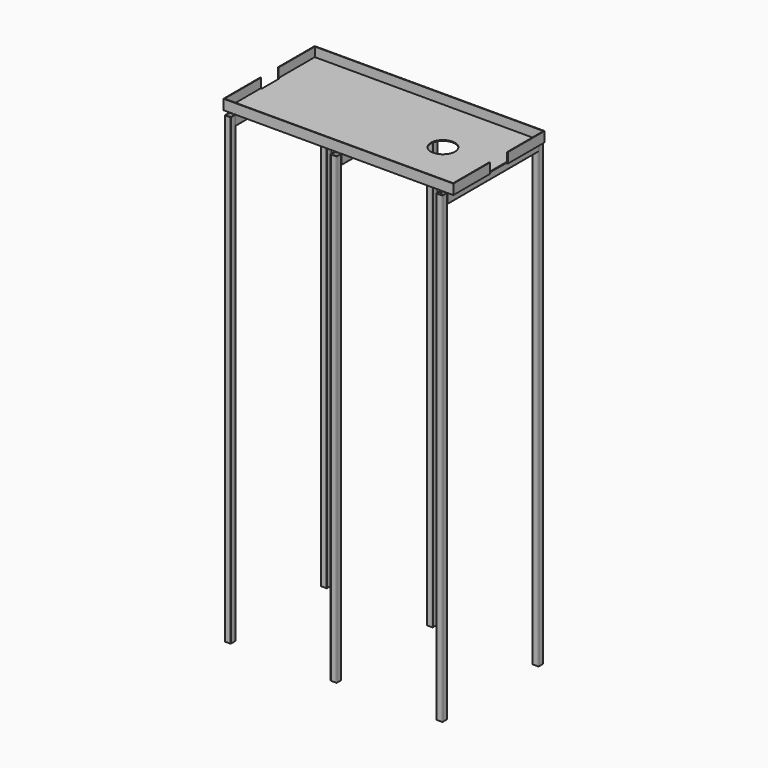
from build123d import *

# Parameters (mm, degrees)
F0_R     = 60
F1_DEPTH = 4
F2_DEPTH = 50
F4_DEPTH = 566
F5_DEPTH = 2300


with BuildPart() as f1:
    # F0 (on Top) → F1 (new body)
    with BuildSketch(Plane.XY):
        Polygon((567.5, 55), (567.5, 280), (-567.5, 280), (-567.5, 55), (-562.5, 55), (-562.5, -55), (-567.5, -55), (-567.5, -280), (567.5, -280), (567.5, -55), (562.5, -55), (562.5, 55), align=None)
        with Locations((292.5, 0)):
            Circle(F0_R, mode=Mode.SUBTRACT)
    extrude(amount=F1_DEPTH)

    # F0 (on Top) → F2 (join)
    with BuildSketch(Plane.XY):
        Polygon((-567.5, 280), (567.5, 280), (567.5, 55), (570.5, 55), (570.5, 283), (538.5, 283), (512.5, 283), (13, 283), (-13, 283), (-512.5, 283), (-538.5, 283), (-570.5, 283), (-570.5, 55), (-567.5, 55), align=None)
        Polygon((570.5, -55), (567.5, -55), (567.5, -280), (-567.5, -280), (-567.5, -55), (-570.5, -55), (-570.5, -283), (570.5, -283), align=None)
    extrude(amount=F2_DEPTH)


with BuildPart() as f4:
    # F3 (on face) → F4 (new body)
    with BuildSketch(Plane.XZ.offset(283)):
        with BuildLine():
            Line((-512.5, 0), (-538.5, 0))
            ThreePointArc((-538.5, 0), (-539.914214, -0.585786), (-540.5, -2))
            Line((-540.5, -2), (-540.5, -48))
            ThreePointArc((-540.5, -48), (-539.914214, -49.414214), (-538.5, -50))
            Line((-538.5, -50), (-512.5, -50))
            ThreePointArc((-512.5, -50), (-511.085786, -49.414214), (-510.5, -48))
            Line((-510.5, -48), (-510.5, -2))
            ThreePointArc((-510.5, -2), (-511.085786, -0.585786), (-512.5, 0))
        make_face()
        with BuildLine():
            Line((-538.9, -48), (-538.9, -2))
            ThreePointArc((-538.9, -2), (-538.782843, -1.717157), (-538.5, -1.6))
            Line((-538.5, -1.6), (-512.5, -1.6))
            ThreePointArc((-512.5, -1.6), (-512.217157, -1.717157), (-512.1, -2))
            Line((-512.1, -2), (-512.1, -48))
            ThreePointArc((-512.1, -48), (-512.217157, -48.282843), (-512.5, -48.4))
            Line((-512.5, -48.4), (-538.5, -48.4))
            ThreePointArc((-538.5, -48.4), (-538.782843, -48.282843), (-538.9, -48))
        make_face(mode=Mode.SUBTRACT)
        with BuildLine():
            Line((512.5, -50), (538.5, -50))
            ThreePointArc((538.5, -50), (539.914214, -49.414214), (540.5, -48))
            Line((540.5, -48), (540.5, -2))
            ThreePointArc((540.5, -2), (539.914214, -0.585786), (538.5, 0))
            Line((538.5, 0), (512.5, 0))
            ThreePointArc((512.5, 0), (511.085786, -0.585786), (510.5, -2))
            Line((510.5, -2), (510.5, -48))
            ThreePointArc((510.5, -48), (511.085786, -49.414214), (512.5, -50))
        make_face()
        with BuildLine():
            ThreePointArc((538.9, -48), (538.782843, -48.282843), (538.5, -48.4))
            Line((538.5, -48.4), (512.5, -48.4))
            ThreePointArc((512.5, -48.4), (512.217157, -48.282843), (512.1, -48))
            Line((512.1, -48), (512.1, -2))
            ThreePointArc((512.1, -2), (512.217157, -1.717157), (512.5, -1.6))
            Line((512.5, -1.6), (538.5, -1.6))
            ThreePointArc((538.5, -1.6), (538.782843, -1.717157), (538.9, -2))
            Line((538.9, -2), (538.9, -48))
        make_face(mode=Mode.SUBTRACT)
        with BuildLine():
            Line((13, 0), (-13, 0))
            ThreePointArc((-13, 0), (-14.414214, -0.585786), (-15, -2))
            Line((-15, -2), (-15, -48))
            ThreePointArc((-15, -48), (-14.414214, -49.414214), (-13, -50))
            Line((-13, -50), (13, -50))
            ThreePointArc((13, -50), (14.414214, -49.414214), (15, -48))
            Line((15, -48), (15, -2))
            ThreePointArc((15, -2), (14.414214, -0.585786), (13, 0))
        make_face()
        with BuildLine():
            Line((-13.4, -48), (-13.4, -2))
            ThreePointArc((-13.4, -2), (-13.282843, -1.717157), (-13, -1.6))
            Line((-13, -1.6), (13, -1.6))
            ThreePointArc((13, -1.6), (13.282843, -1.717157), (13.4, -2))
            Line((13.4, -2), (13.4, -48))
            ThreePointArc((13.4, -48), (13.282843, -48.282843), (13, -48.4))
            Line((13, -48.4), (-13, -48.4))
            ThreePointArc((-13, -48.4), (-13.282843, -48.282843), (-13.4, -48))
        make_face(mode=Mode.SUBTRACT)
    extrude(amount=-F4_DEPTH)


with BuildPart() as f5:
    # F0 (on Top) → F5 (new body)
    with BuildSketch(Plane.XY):
        with BuildLine():
            ThreePointArc((-540.5, 285), (-539.914214, 283.585786), (-538.5, 283))
            Line((-538.5, 283), (-512.5, 283))
            ThreePointArc((-512.5, 283), (-511.085786, 283.585786), (-510.5, 285))
            Line((-510.5, 285), (-510.5, 311))
            ThreePointArc((-510.5, 311), (-511.085786, 312.414214), (-512.5, 313))
            Line((-512.5, 313), (-538.5, 313))
            ThreePointArc((-538.5, 313), (-539.914214, 312.414214), (-540.5, 311))
            Line((-540.5, 311), (-540.5, 285))
        make_face()
        with BuildLine():
            ThreePointArc((-536.9, 284.6), (-538.314214, 285.185786), (-538.9, 286.6))
            Line((-538.9, 286.6), (-538.9, 309.4))
            ThreePointArc((-538.9, 309.4), (-538.314214, 310.814214), (-536.9, 311.4))
            Line((-536.9, 311.4), (-514.1, 311.4))
            ThreePointArc((-514.1, 311.4), (-512.685786, 310.814214), (-512.1, 309.4))
            Line((-512.1, 309.4), (-512.1, 286.6))
            ThreePointArc((-512.1, 286.6), (-512.685786, 285.185786), (-514.1, 284.6))
            Line((-514.1, 284.6), (-536.9, 284.6))
        make_face(mode=Mode.SUBTRACT)
        with BuildLine():
            Line((-13, 283), (13, 283))
            ThreePointArc((13, 283), (14.414214, 283.585786), (15, 285))
            Line((15, 285), (15, 311))
            ThreePointArc((15, 311), (14.414214, 312.414214), (13, 313))
            Line((13, 313), (-13, 313))
            ThreePointArc((-13, 313), (-14.414214, 312.414214), (-15, 311))
            Line((-15, 311), (-15, 285))
            ThreePointArc((-15, 285), (-14.414214, 283.585786), (-13, 283))
        make_face()
        with BuildLine():
            Line((13.4, 309.4), (13.4, 286.6))
            ThreePointArc((13.4, 286.6), (12.814214, 285.185786), (11.4, 284.6))
            Line((11.4, 284.6), (-11.4, 284.6))
            ThreePointArc((-11.4, 284.6), (-12.814214, 285.185786), (-13.4, 286.6))
            Line((-13.4, 286.6), (-13.4, 309.4))
            ThreePointArc((-13.4, 309.4), (-12.814214, 310.814214), (-11.4, 311.4))
            Line((-11.4, 311.4), (11.4, 311.4))
            ThreePointArc((11.4, 311.4), (12.814214, 310.814214), (13.4, 309.4))
        make_face(mode=Mode.SUBTRACT)
        with BuildLine():
            Line((512.5, 283), (538.5, 283))
            ThreePointArc((538.5, 283), (539.914214, 283.585786), (540.5, 285))
            Line((540.5, 285), (540.5, 311))
            ThreePointArc((540.5, 311), (539.914214, 312.414214), (538.5, 313))
            Line((538.5, 313), (512.5, 313))
            ThreePointArc((512.5, 313), (511.085786, 312.414214), (510.5, 311))
            Line((510.5, 311), (510.5, 285))
            ThreePointArc((510.5, 285), (511.085786, 283.585786), (512.5, 283))
        make_face()
        with BuildLine():
            Line((514.1, 311.4), (536.9, 311.4))
            ThreePointArc((536.9, 311.4), (538.314214, 310.814214), (538.9, 309.4))
            Line((538.9, 309.4), (538.9, 286.6))
            ThreePointArc((538.9, 286.6), (538.314214, 285.185786), (536.9, 284.6))
            Line((536.9, 284.6), (514.1, 284.6))
            ThreePointArc((514.1, 284.6), (512.685786, 285.185786), (512.1, 286.6))
            Line((512.1, 286.6), (512.1, 309.4))
            ThreePointArc((512.1, 309.4), (512.685786, 310.814214), (514.1, 311.4))
        make_face(mode=Mode.SUBTRACT)
    extrude(amount=-F5_DEPTH)


with BuildPart() as f6_1:
    # F6: instance of F5
    add(f5.part.mirror(Plane.XZ))


solid = Compound([f1.part, f4.part, f5.part, f6_1.part])
